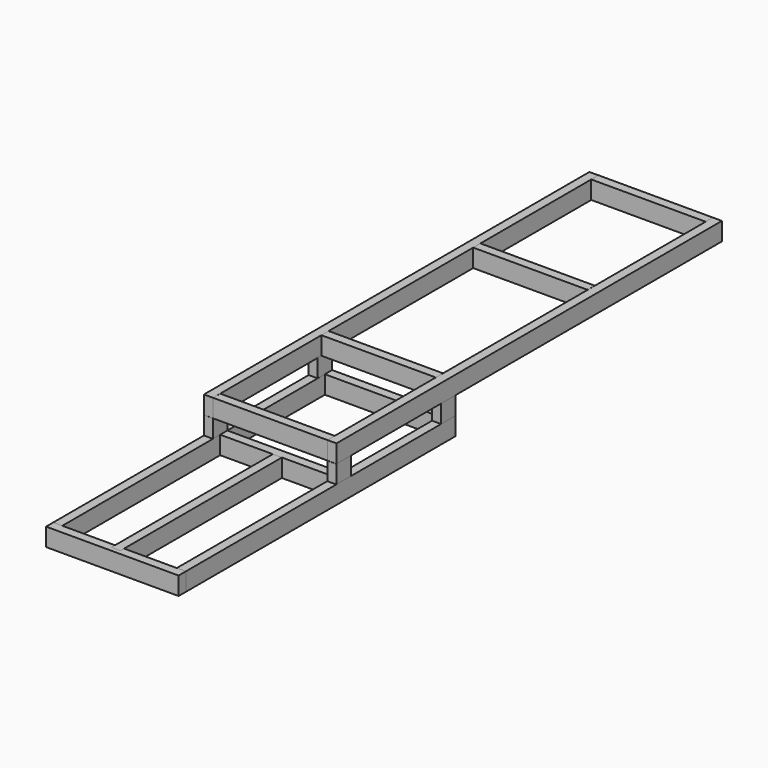
from build123d import *

# Parameters (mm, degrees)
F0_W      = 37.5
F0_H      = 2000
F2_DEPTH  = 75
F1_W      = 475
F1_H      = 37.5
F3_W      = 37.4414445066
F3_H      = 75
F3_W_2    = 37.3510122299
F4_DEPTH  = 75
F3_W_3    = 37.4418273568
F3_W_4    = 37.3892523348
F5_W      = 37.3510122299
F5_H      = 75
F6_DEPTH  = 75
F5_W_2    = 37.5
F5_H_2    = 1400
F7_DEPTH  = 75
F8_W      = 37.5
F8_H      = 75
F9_DEPTH  = 475
F10_W     = 550.0727504492
F10_H     = 74.8913913965
F11_DEPTH = 37.5
F12_W     = 37.5
F12_H     = 75
F13_DEPTH = 475
F14_W     = 37.6
F14_H     = 75
F15_DEPTH = 837.5


with BuildPart() as f2:
    # F0 (on Top) → F2 (new body)
    with BuildSketch(Plane.XY):
        with Locations((52.6724718511, 2.7743894607)):
            Rectangle(F0_W, F0_H)
    extrude(amount=F2_DEPTH)


with BuildPart() as f2b:
    # F0 (on Top) → F2, piece 2 (new body)
    with BuildSketch(Plane.XY):
        with Locations((-459.8275281489, 2.6409029961)):
            Rectangle(F0_W, F0_H)
    extrude(amount=F2_DEPTH)

    # F3 (on Top) → F4 (join)
    with BuildSketch(Plane.XY):
        with Locations((-459.9973857403, -416.4530932903)):
            Rectangle(F3_W, F3_H)
        with Locations((-459.7949981689, -960.0578784943)):
            Rectangle(F3_W_2, F3_H)
    extrude(amount=-F4_DEPTH)

    # F5 (on face) → F6 (join)
    with BuildSketch(Plane(origin=(0, 0, -75), x_dir=(1, 0, 0), z_dir=(0, 0, -1))):
        Polygon((-478.619492054, 1778.9342453794), (-478.619492054, 378.9342453794), (-441.119492054, 378.9342453794), (-441.119492054, 922.5578784943), (-478.4705042839, 922.5578784943), (-478.4705042839, 997.5578784943), (-441.119492054, 997.5578784943), (-441.119492054, 1778.9342453794), align=None)
        with Locations((-459.7949981689, 960.0578784943)):
            Rectangle(F5_W, F5_H)
    extrude(amount=F6_DEPTH)


with BuildPart() as f2c:
    # F1 (on Top) → F2, piece 3 (new body)
    with BuildSketch(Plane.XY):
        with Locations((-203.7048033006, 984.0755462646)):
            Rectangle(F1_W, F1_H)
    extrude(amount=F2_DEPTH)


with BuildPart() as f2d:
    # F1 (on Top) → F2, piece 4 (new body)
    with BuildSketch(Plane.XY):
        with Locations((-203.8916617632, 371.5755462646)):
            Rectangle(F1_W, F1_H)
    extrude(amount=F2_DEPTH)


with BuildPart() as f2e:
    # F1 (on Top) → F2, piece 5 (new body)
    with BuildSketch(Plane.XY):
        with Locations((-203.4793801606, -978.5795778036)):
            Rectangle(F1_W, F1_H)
    extrude(amount=F2_DEPTH)


with BuildPart() as f2f:
    # F1 (on Top) → F2, piece 6 (new body)
    with BuildSketch(Plane.XY):
        with Locations((-203.6520771682, -416.0795778036)):
            Rectangle(F1_W, F1_H)
    extrude(amount=F2_DEPTH)


with BuildPart() as f4:
    # F3 (on Top) → F4, piece 2 (new body)
    with BuildSketch(Plane.XY):
        with Locations((52.6885055006, -960.498893261)):
            Rectangle(F3_W_3, F3_H)
        with Locations((52.6766311377, -416.6781842709)):
            Rectangle(F3_W_4, F3_H)
    extrude(amount=-F4_DEPTH)


with BuildPart() as f7:
    # F5 (on face) → F7 (new body)
    with BuildSketch(Plane(origin=(0, 0, -75), x_dir=(1, 0, 0), z_dir=(0, 0, -1))):
        with Locations((-459.869492054, 1078.9342453794)):
            Rectangle(F5_W_2, F5_H_2)
    extrude(amount=F7_DEPTH)


with BuildPart() as f7b:
    # F5 (on face) → F7, piece 2 (new body)
    with BuildSketch(Plane(origin=(0, 0, -75), x_dir=(1, 0, 0), z_dir=(0, 0, -1))):
        with Locations((52.6538968086, 1079.2031109333)):
            Rectangle(F5_W_2, F5_H_2)
    extrude(amount=F7_DEPTH)

    # F8 (on face) → F9 (join)
    with BuildSketch(Plane(origin=(33.9038968086, 0, 0), x_dir=(0, -1, 0), z_dir=(-1, 0, 0))):
        with Locations((397.9531109333, -112.5)):
            Rectangle(F8_W, F8_H)
    extrude(amount=F9_DEPTH)


with BuildPart() as f11:
    # F10 (on face) → F11 (new body)
    with BuildSketch(Plane.XZ.offset(1778.9342453794)):
        with Locations((-203.5831168294, -112.4456956983)):
            Rectangle(F10_W, F10_H)
    extrude(amount=F11_DEPTH)


with BuildPart() as f13:
    # F12 (on face) → F13 (new body)
    with BuildSketch(Plane.YZ.offset(-441.119492054)):
        with Locations((-941.4346337318, -112.5)):
            Rectangle(F12_W, F12_H)
    extrude(amount=F13_DEPTH)


with BuildPart() as f15:
    # F14 (on face) → F15 (new body)
    with BuildSketch(Plane.XZ.offset(960.1846337318)):
        with Locations((-203.619492054, -112.5)):
            Rectangle(F14_W, F14_H)
    extrude(amount=F15_DEPTH)


solid = Compound([f2.part, f2b.part, f2c.part, f2d.part, f2e.part, f2f.part, f4.part, f7.part, f7b.part, f11.part, f13.part, f15.part])
